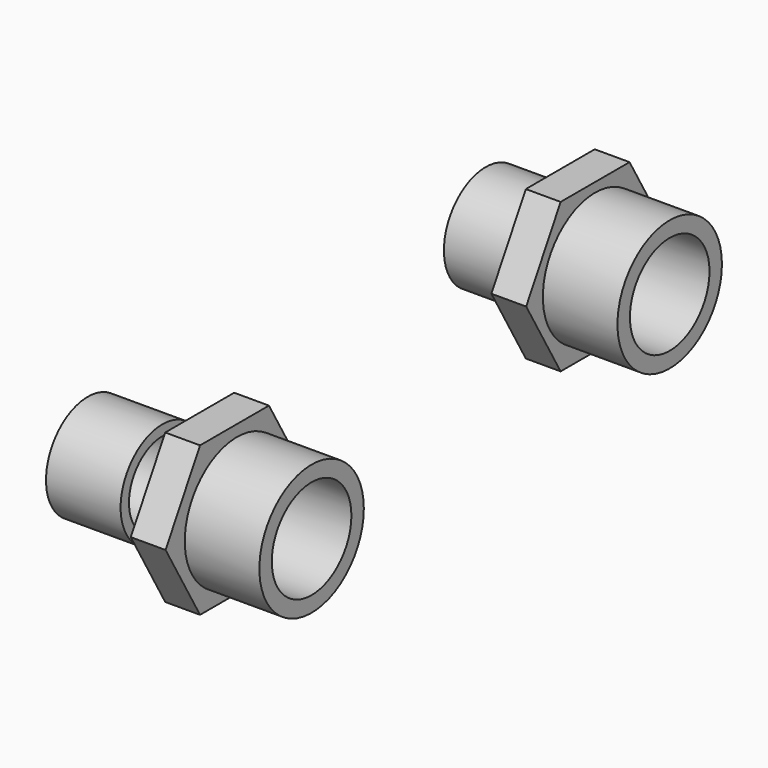
from build123d import *

# Parameters (mm, degrees)
SKETCH_R      = 13.335
SKETCH_R_2    = 10.668
PAD_DEPTH     = 19.05
SKETCH001_R   = 16.66875
SKETCH001_R_2 = 12.7
PAD001_DEPTH  = 19.05
SKETCH002_R   = 12.7
PAD002_DEPTH  = 4.445


with BuildPart() as f_0_75in_x0_75in_npt_tube:
    # Sketch → Pad (new body)
    with BuildSketch(Plane.YZ):
        Circle(SKETCH_R)
        Circle(SKETCH_R_2, mode=Mode.SUBTRACT)
    extrude(amount=PAD_DEPTH)


with BuildPart() as sae_16_x_0_75in_tube:
    # Sketch001 → Pad001 (new body)
    with BuildSketch(Plane.YZ.offset(38.1)):
        Circle(SKETCH001_R)
        Circle(SKETCH001_R_2, mode=Mode.SUBTRACT)
    extrude(amount=PAD001_DEPTH)


with BuildPart() as hex_nut_1_5in_x_0_35in:
    # Sketch002 → Pad002 (new body, symmetric)
    with BuildSketch(Plane.YZ.offset(33.02)):
        Polygon((10.998523, -19.05), (21.997045, 0), (10.998523, 19.05), (-10.998523, 19.05), (-21.997045, 0), (-10.998523, -19.05), align=None)
        Circle(SKETCH002_R, mode=Mode.SUBTRACT)
    extrude(amount=PAD002_DEPTH, both=True)


with BuildPart() as clone_of_hex_nut_1_5in_x_0_35in:
    # Clone base: copy of Hex nut 1.5in x 0.35in
    add(hex_nut_1_5in_x_0_35in.part)


with BuildPart() as clone_of_hex_nut_1_5in_x_0_35in_1:
    # Clone placement: moved
    add(clone_of_hex_nut_1_5in_x_0_35in.part.moved(Location((51.435, 50.8, 50.8))))


with BuildPart() as clone_of_sae_16_x_0_75in_tube:
    # Clone001 base: copy of SAE -16 x 0.75in tube
    add(sae_16_x_0_75in_tube.part)


with BuildPart() as clone_of_sae_16_x_0_75in_tube_1:
    # Clone001 placement: moved
    add(clone_of_sae_16_x_0_75in_tube.part.moved(Location((50.8, 50.8, 50.8))))


with BuildPart() as clone_of_0_75in_x0_75in_npt_tube:
    # Clone002 base: copy of 0.75in x0.75in NPT tube
    add(f_0_75in_x0_75in_npt_tube.part)


with BuildPart() as clone_of_0_75in_x0_75in_npt_tube_1:
    # Clone002 placement: moved
    add(clone_of_0_75in_x0_75in_npt_tube.part.moved(Location((60.96, 50.8, 50.8))))


solid = Compound([f_0_75in_x0_75in_npt_tube.part, sae_16_x_0_75in_tube.part, hex_nut_1_5in_x_0_35in.part, clone_of_hex_nut_1_5in_x_0_35in_1.part, clone_of_sae_16_x_0_75in_tube_1.part, clone_of_0_75in_x0_75in_npt_tube_1.part])
